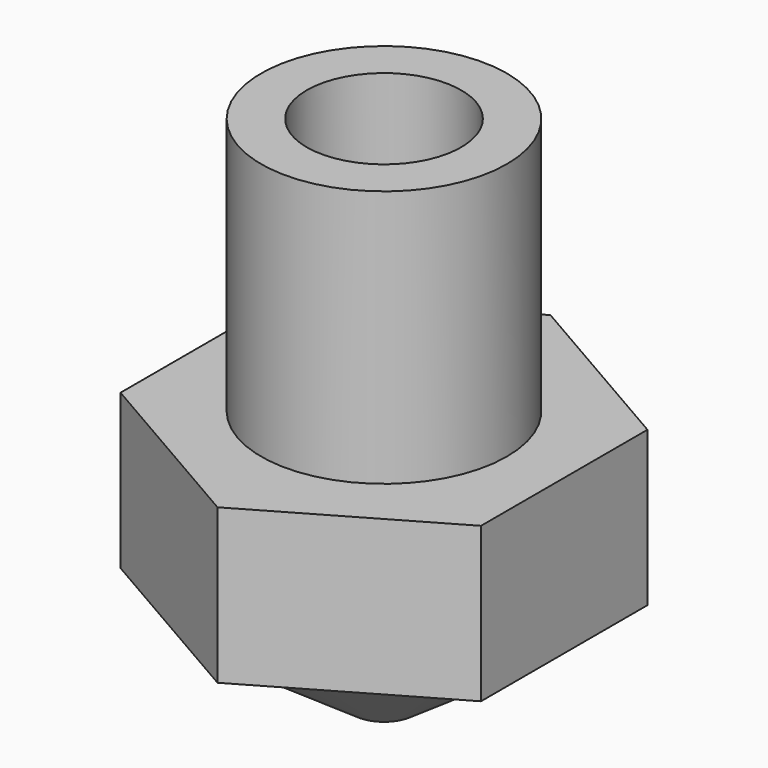
from build123d import *

# Parameters (mm, degrees)
F2_DEPTH  = 3
F3_R      = 2.3865
F4_DEPTH  = 5
F8_D      = 3
F8_DEPTH  = 6
F10_D     = 0.4
F10_DEPTH = 6


with BuildPart() as f2:
    # F1 (on Top) → F2 (new body)
    with BuildSketch(Plane.XY):
        Polygon((3.5, -2.020726), (3.5, 2.020726), (0, 4.041452), (-3.5, 2.020726), (-3.5, -2.020726), (0, -4.041452), align=None)
    extrude(amount=F2_DEPTH)

    # F3 (on face) → F4 (join)
    with BuildSketch(Plane.XY.offset(3)):
        Circle(F3_R)
    extrude(amount=F4_DEPTH)

    # F5 (on Front) → F6 (revolve)
    with BuildSketch(Plane.XZ):
        Polygon((0, -2), (0, 0), (-3.5, 0), (-0.6, -2), align=None)
    revolve(axis=Axis((0, 0, -1), (0, 0, 1)))

    # F8
    with Locations(Plane.XY.offset(8)):
        with Locations((0, 0)):
            Hole(F8_D / 2, depth=F8_DEPTH)

    # F10
    with Locations(Plane(origin=(0, 0, -2), x_dir=(1, 0, 0), z_dir=(0, 0, -1))):
        with Locations((0, 0)):
            Hole(F10_D / 2, depth=F10_DEPTH)

    # F11 (on Front) → F12 (revolve, cut)
    with BuildSketch(Plane.XZ):
        Polygon((0, 2), (-1.5, 2), (-0.2, -1.4), (0, -1.4), align=None)
    revolve(axis=Axis((0, 0, 0.3), (0, 0, -1)), mode=Mode.SUBTRACT)


solid = f2.part
